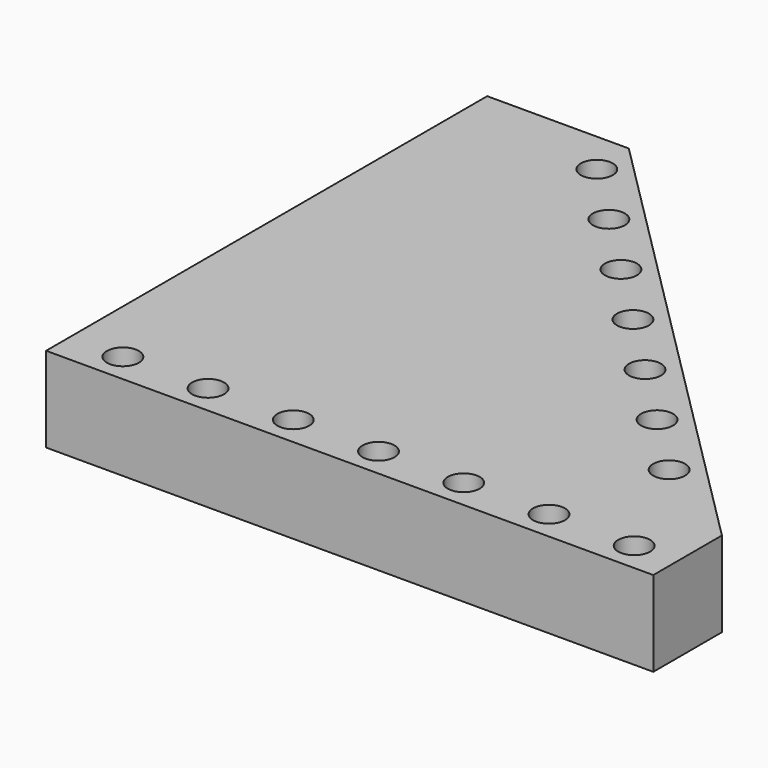
from build123d import *

# Parameters (mm, degrees)
F0_R     = 4.7625
F1_DEPTH = 25.4


with BuildPart() as f1:
    # F0 (on Top) → F1 (new body)
    with BuildSketch(Plane.XY):
        Polygon((-219.075, 165.1), (-219.075, 19.05), (-200.787, 19.05), (-128.5875, 91.2495), (-146.9525612107, 109.6145612107), (-202.438, 165.1), align=None)
        Polygon((-38.1, 0.762), (-38.1, 19.05), (-200.787, 19.05), (-219.075, 0.762), align=None)
        with Locations((-203.2, 9.525)):
            Circle(F0_R, mode=Mode.SUBTRACT)
        with Locations((-177.8, 9.525)):
            Circle(F0_R, mode=Mode.SUBTRACT)
        with Locations((-152.4, 9.525)):
            Circle(F0_R, mode=Mode.SUBTRACT)
        with Locations((-127, 9.525)):
            Circle(F0_R, mode=Mode.SUBTRACT)
        with Locations((-101.6, 9.525)):
            Circle(F0_R, mode=Mode.SUBTRACT)
        with Locations((-76.2, 9.525)):
            Circle(F0_R, mode=Mode.SUBTRACT)
        with Locations((-50.8, 9.525)):
            Circle(F0_R, mode=Mode.SUBTRACT)
        with BuildLine():
            Line((-125.1955164365, 94.6414835635), (-128.5875, 91.2495))
            Line((-128.5875, 91.2495), (-57.15, 19.812))
            Line((-57.15, 19.812), (-44.3645546077, 32.5974453923))
            Line((-44.3645546077, 32.5974453923), (-115.8020546077, 104.0349453923))
            Line((-115.8020546077, 104.0349453923), (-118.5090993819, 101.3279006181))
            ThreePointArc((-118.5090993819, 101.3279006181), (-117.7551848926, 99.9437041782), (-117.4943568778, 98.3892410594))
            ThreePointArc((-117.4943568778, 98.3892410594), (-120.1728655028, 94.1069068595), (-125.1955164365, 94.6414835635))
        make_face()
        with Locations((-68.3753201513, 44.5077043329)):
            Circle(F0_R, mode=Mode.SUBTRACT)
        with Locations((-86.3358323935, 62.4682165751)):
            Circle(F0_R, mode=Mode.SUBTRACT)
        with Locations((-104.2963446356, 80.4287288172)):
            Circle(F0_R, mode=Mode.SUBTRACT)
        Polygon((-200.787, 19.05), (-219.075, 19.05), (-219.075, 0.762), align=None)
        with BuildLine():
            Line((-176.8671092154, 165.1), (-202.438, 165.1))
            Line((-202.438, 165.1), (-146.9525612107, 109.6145612107))
            Line((-146.9525612107, 109.6145612107), (-143.5849651653, 112.9821572561))
            ThreePointArc((-143.5849651653, 112.9821572561), (-143.5849651653, 119.7173493469), (-136.8497730745, 119.7173493469))
            Line((-136.8497730745, 119.7173493469), (-134.1671158184, 122.400006603))
            Line((-134.1671158184, 122.400006603), (-176.8671092154, 165.1))
        make_face()
        with Locations((-158.177881362, 134.3102655436)):
            Circle(F0_R, mode=Mode.SUBTRACT)
        with Locations((-176.1383936042, 152.2707777858)):
            Circle(F0_R, mode=Mode.SUBTRACT)
        with BuildLine():
            Line((-146.9525612107, 109.6145612107), (-128.5875, 91.2495))
            Line((-128.5875, 91.2495), (-125.1955164365, 94.6414835635))
            ThreePointArc((-125.1955164365, 94.6414835635), (-125.6244529232, 101.7568371048), (-118.5090993819, 101.3279006181))
            Line((-118.5090993819, 101.3279006181), (-115.8020546077, 104.0349453923))
            Line((-115.8020546077, 104.0349453923), (-134.1671158184, 122.400006603))
            Line((-134.1671158184, 122.400006603), (-136.8497730745, 119.7173493469))
            ThreePointArc((-136.8497730745, 119.7173493469), (-135.8173928463, 118.1722831481), (-135.4548691199, 116.3497533015))
            ThreePointArc((-135.4548691199, 116.3497533015), (-138.3948392733, 111.9497770279), (-143.5849651653, 112.9821572561))
            Line((-143.5849651653, 112.9821572561), (-146.9525612107, 109.6145612107))
        make_face()
        Polygon((-200.787, 19.05), (-38.1, 19.05), (-38.1, 26.3328907846), (-44.3645546077, 32.5974453923), (-57.15, 19.812), (-128.5875, 91.2495), align=None)
        Polygon((-200.787, 19.05), (-38.1, 19.05), (-38.1, 26.3328907846), (-44.3645546077, 32.5974453923), (-57.15, 19.812), (-128.5875, 91.2495), align=None)
    extrude(amount=F1_DEPTH)


solid = f1.part
